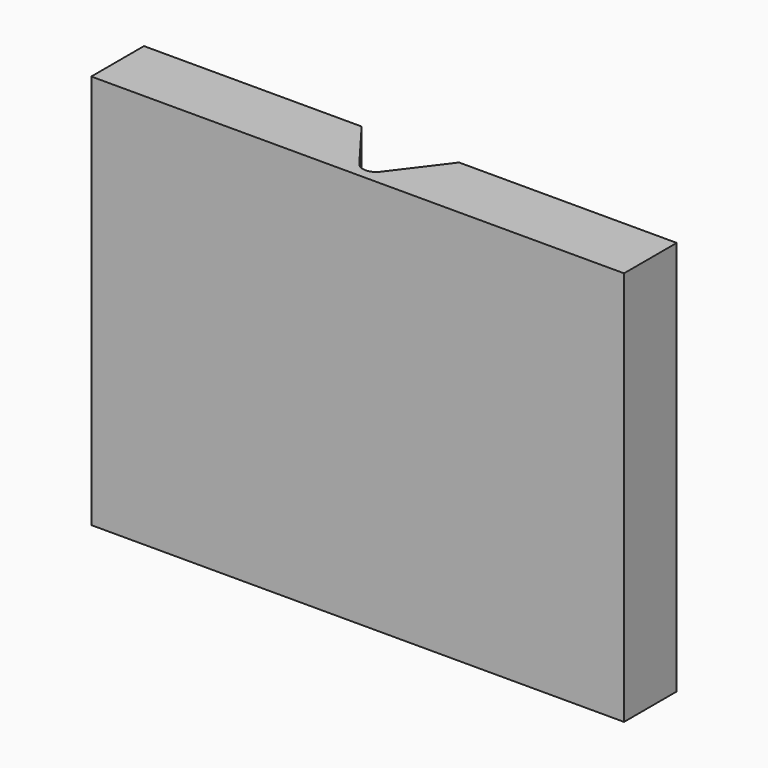
from build123d import *

# Parameters (mm, degrees)
F0_W     = 26.5945848078
F0_H     = 6.6253300756
F1_DEPTH = 152.4
F2_DEPTH = 76.2
F3_DEPTH = 18.796
F4_SIZE2 = 24.9431344672
F4_SIZE  = 18.796
F6_R     = 5.08


with BuildPart() as f1:
    # F0 (on Top) → F1 (new body)
    with BuildSketch(Plane.XY):
        with Locations((-13.2972924039, 3.3126650378)):
            Rectangle(F0_W, F0_H)
    extrude(amount=F1_DEPTH)

    # F2 (add): a face of the model
    f2_faces = [f1.faces().sort_by_distance(p)[0] for p in [
        (-26.5945848078, 3.3126650378, 76.2),
    ]]
    extrude(f2_faces, amount=F2_DEPTH)

    # F3 (add): a face of the model
    f3_faces = [f1.faces().sort_by_distance(p)[0] for p in [
        (-51.3972924039, 6.6253300756, 76.2),
    ]]
    extrude(f3_faces, amount=F3_DEPTH)

    # F4
    f4_edges = [f1.edges().sort_by_distance(p)[0] for p in [
        (0, 25.42133, 76.2),
    ]]
    f4_side = f1.faces().sort_by_distance((-51.397292, 25.42133, 76.2))[0]
    chamfer(f4_edges, length=F4_SIZE, length2=F4_SIZE2, reference=f4_side)

    # F5: F1 across plane


with BuildPart() as f1_1:
    add(f1.part)
    add(f1.part.mirror(Plane.YZ))

    # F6
    f6_edges = [f1_1.edges().sort_by_distance(p)[0] for p in [
        (0, 0.478196, 76.2),
    ]]
    fillet(f6_edges, radius=F6_R)


solid = f1_1.part
